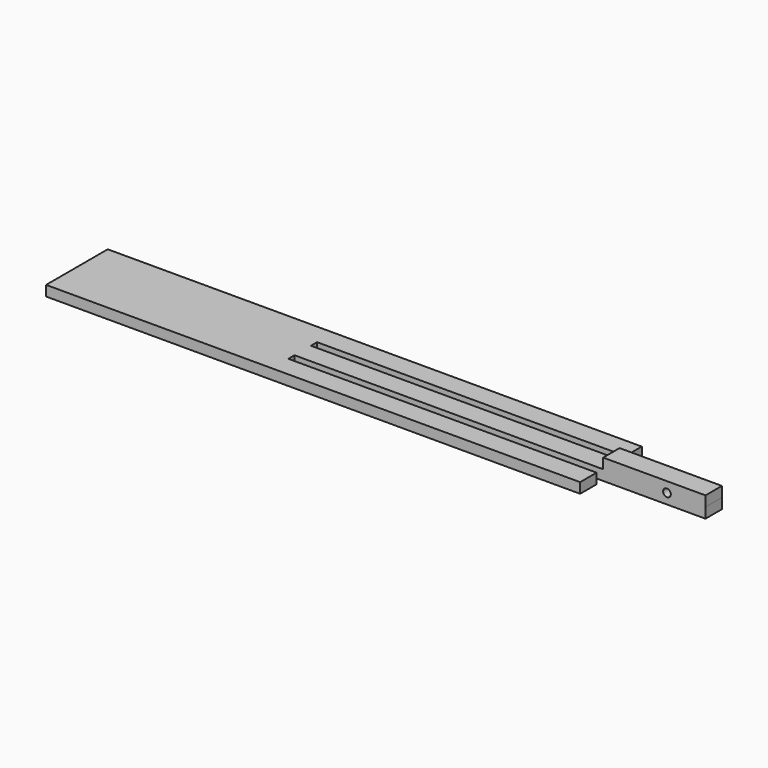
from build123d import *

# Parameters (mm, degrees)
F1_DEPTH = 4
F2_W     = 39.829583
F2_H     = 8
F3_DEPTH = 4
F4_R     = 1.5
F5_DEPTH = 12


with BuildPart() as f1:
    # F0 (on Top) → F1 (new body)
    with BuildSketch(Plane.XY):
        Polygon((-123.954707, -15), (83.954707, -15), (83.954707, -7), (-36.045293, -7), (-36.045293, -4), (123.954707, -4), (123.954707, 4), (-36.045293, 4), (-36.045293, 7), (83.954707, 7), (83.954707, 15), (-123.954707, 15), align=None)
    extrude(amount=F1_DEPTH)

    # F2 (on face) → F3 (join)
    with BuildSketch(Plane.XY.offset(4)):
        with Locations((104.039916, 0)):
            Rectangle(F2_W, F2_H)
    extrude(amount=F3_DEPTH)

    # F4 (on face) → F5 (cut)
    with BuildSketch(Plane.XZ.offset(4)):
        with Locations((108.954707, 4)):
            Circle(F4_R)
    extrude(amount=-F5_DEPTH, mode=Mode.SUBTRACT)


solid = f1.part
